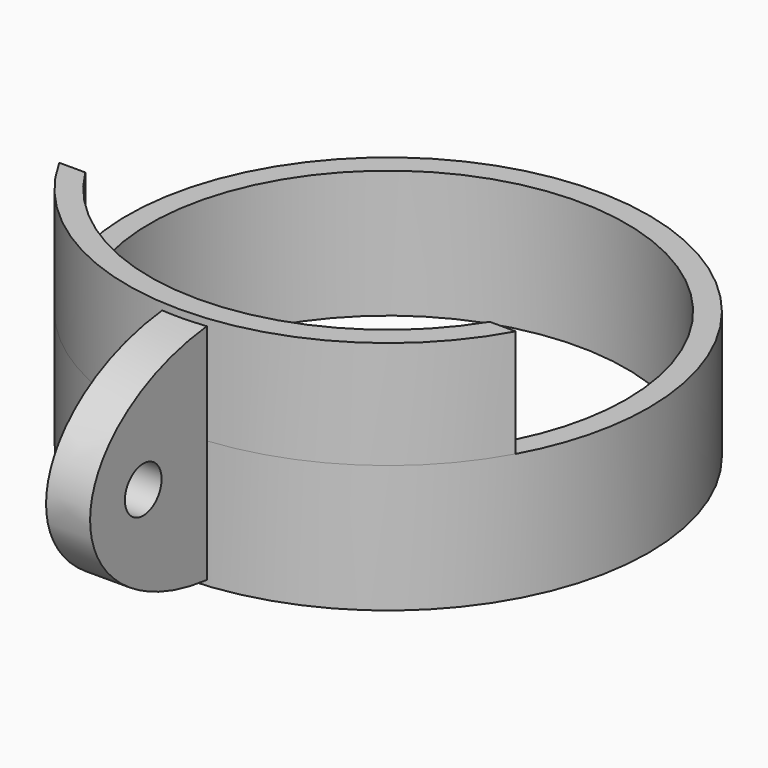
from build123d import *

# Parameters (mm, degrees)
SKETCH003_R  = 2.55
PAD001_DEPTH = 4.9
SKETCH_R     = 29
SKETCH_R_2   = 26.5
PAD_DEPTH    = 14.2
PAD002_DEPTH = 12


with BuildPart() as obj1:
    # Sketch003 → Pad001 (new body)
    with BuildSketch(Plane.YZ):
        with BuildLine():
            Line((-44, 29.5), (-44, 4.5))
            add(Edge.make_bspline(
                [(-44, 29.5), (-61.080011, 28.290286), (-61.080011, 17.016231), (-61.080011, 5.742177), (-44, 4.5)],
                knots=[4.82244, 4.82244, 4.82244, 6.28428, 6.28428, 7.746121, 7.746121, 7.746121], degree=2, weights=[1, 0.74456, 1, 0.74456, 1]))
        make_face()
        with Locations((-53.690757, 17.017669)):
            Circle(SKETCH003_R, mode=Mode.SUBTRACT)
    extrude(amount=PAD001_DEPTH)


with BuildPart() as obj1_1:
    # Body001 placement: moved
    add(obj1.part.moved(Location((-2, 16, -4))))


with BuildPart() as obj2:
    # Sketch → Pad (new body)
    with BuildSketch(Plane.XY):
        Circle(SKETCH_R)
        Circle(SKETCH_R_2, mode=Mode.SUBTRACT)
    extrude(amount=PAD_DEPTH)

    # Sketch001 (on Face4 of Pad) → Pad002 (join)
    with BuildSketch(Plane.XY.offset(14.2)):
        with BuildLine():
            ThreePointArc((-25.39685, -14), (0, -29), (25.39685, -14))
            Line((25.39685, -14), (22.5, -14))
            ThreePointArc((-22.5, -14), (0, -26.5), (22.5, -14))
            Line((-25.39685, -14), (-22.5, -14))
        make_face()
    extrude(amount=PAD002_DEPTH)

    # Boolean: union obj1
    add(obj1_1.part)


solid = obj2.part
